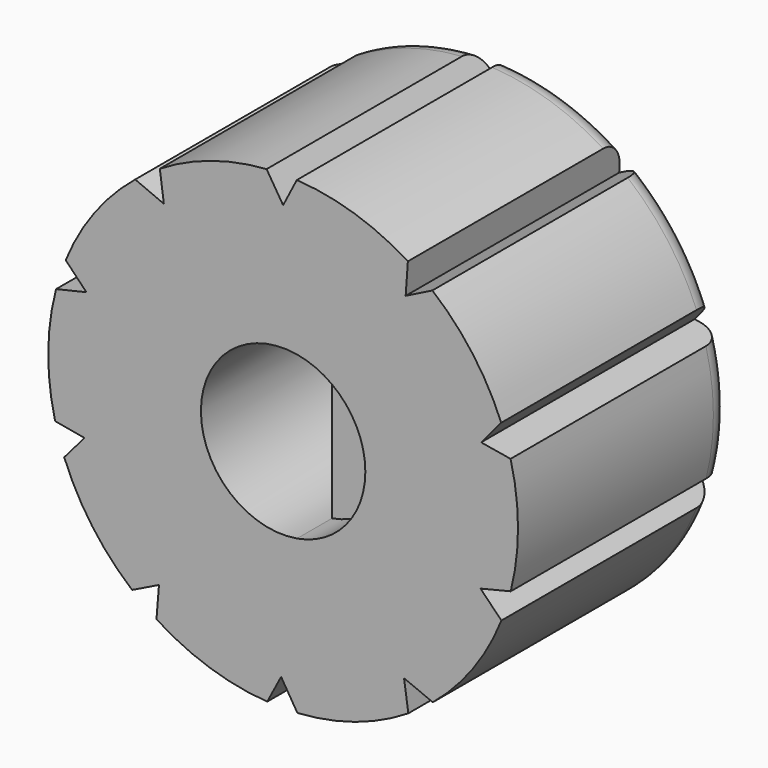
from build123d import *

# Parameters (mm, degrees)
F1_DEPTH = 10
F2_DEPTH = 7.95
F3_DEPTH = 2.5
F4_R     = 1.0622539674


with BuildPart() as f1:
    # F0 (on Front) → F1 (new body)
    with BuildSketch(Plane.XZ):
        with BuildLine():
            ThreePointArc((10.6592367905, -2.7167390458), (10.9144767327, -1.3690133864), (11, 0))
            ThreePointArc((11, 0), (10.9127641391, 1.3825985843), (10.65244021, 2.7432676816))
            Line((10.65244021, 2.7432676816), (9.2721758837, 2.9730035594))
            Line((9.2721758837, 2.9730035594), (10.2124558135, 4.0872663551))
            ThreePointArc((10.2124558135, 4.0872663551), (8.8785549643, 6.4939403867), (6.9890934799, 8.4942670272))
            Line((6.9890934799, 8.4942670272), (5.7386160604, 7.8664020679))
            Line((5.7386160604, 7.8664020679), (5.8415511192, 9.3207446335))
            ThreePointArc((5.8415511192, 9.3207446335), (3.3455445115, 10.4788993659), (0.6401960862, 10.9813546055))
            Line((0.6401960862, 10.9813546055), (0, 9.7371451557))
            Line((0, 9.7371451557), (-0.7739624833, 10.9727381302))
            ThreePointArc((-0.7739624833, 10.9727381302), (-3.3716222336, 10.4705378808), (-5.7742283081, 9.3626004638))
            Line((-5.7742283081, 9.3626004638), (-5.5849970186, 7.9762023598))
            Line((-5.5849970186, 7.9762023598), (-6.9276969841, 8.5444142278))
            ThreePointArc((-6.9276969841, 8.5444142278), (-8.8315250081, 6.5577561735), (-10.1827352173, 4.1607575626))
            Line((-10.1827352173, 4.1607575626), (-9.2127819423, 3.1522443856))
            Line((-9.2127819423, 3.1522443856), (-10.6323938835, 2.819964593))
            ThreePointArc((-10.6323938835, 2.819964593), (-10.9996071509, 0.0929651823), (-10.6785385121, -2.6398513682))
            Line((-10.6785385121, -2.6398513682), (-9.300566617, -2.8829596573))
            Line((-9.300566617, -2.8829596573), (-10.2516063733, -3.9880530046))
            ThreePointArc((-10.2516063733, -3.9880530046), (-8.941103633, -6.407547567), (-7.0711263799, -8.4261006236))
            Line((-7.0711263799, -8.4261006236), (-5.8146198884, -7.8103899606))
            Line((-5.8146198884, -7.8103899606), (-5.9316515908, -9.2636660888))
            ThreePointArc((-5.9316515908, -9.2636660888), (-3.4469919259, -10.445967962), (-0.7466425421, -10.9746309694))
            Line((-0.7466425421, -10.9746309694), (-0.0944125443, -9.7366874272))
            Line((-0.0944125443, -9.7366874272), (0.6675330963, -10.9797267528))
            ThreePointArc((0.6675330963, -10.9797267528), (3.3716222336, -10.4705378808), (5.8647377838, -9.3061727218))
            Line((5.8647377838, -9.3061727218), (5.662072705, -7.9216745998))
            Line((5.662072705, -7.9216745998), (7.0102190036, -8.4768407748))
            ThreePointArc((7.0102190036, -8.4768407748), (8.8946946533, -6.4718163621), (10.2225997539, -4.0618289319))
            Line((10.2225997539, -4.0618289319), (9.2429134084, -3.0627679486))
            Line((9.2429134084, -3.0627679486), (10.6592367905, -2.7167390458))
        make_face()
        with BuildLine():
            ThreePointArc((0.65, 3.7947331922), (2.9432125306, 2.4819347292), (3.85, 0))
            ThreePointArc((3.85, 0), (2.9432125306, -2.4819347292), (0.65, -3.7947331922))
            ThreePointArc((0.65, -3.7947331922), (-3.85, 0), (0.65, 3.7947331922))
        make_face(mode=Mode.SUBTRACT)
    extrude(amount=F1_DEPTH)

    # F0 (on Front) → F2 (join)
    with BuildSketch(Plane.XZ):
        with BuildLine():
            ThreePointArc((0.65, -3.7947331922), (2.9432125306, -2.4819347292), (3.85, 0))
            ThreePointArc((3.85, 0), (2.9432125306, 2.4819347292), (0.65, 3.7947331922))
            Line((0.65, 3.7947331922), (0.65, -3.7947331922))
        make_face()
    extrude(amount=F2_DEPTH)

    # F0 (on Front) → F3 (join)
    with BuildSketch(Plane.XZ):
        with BuildLine():
            ThreePointArc((10.6592367905, -2.7167390458), (10.9144767327, -1.3690133864), (11, 0))
            ThreePointArc((11, 0), (10.9127641391, 1.3825985843), (10.65244021, 2.7432676816))
            Line((10.65244021, 2.7432676816), (9.2721758837, 2.9730035594))
            Line((9.2721758837, 2.9730035594), (10.2124558135, 4.0872663551))
            ThreePointArc((10.2124558135, 4.0872663551), (8.8785549643, 6.4939403867), (6.9890934799, 8.4942670272))
            Line((6.9890934799, 8.4942670272), (5.7386160604, 7.8664020679))
            Line((5.7386160604, 7.8664020679), (5.8415511192, 9.3207446335))
            ThreePointArc((5.8415511192, 9.3207446335), (3.3455445115, 10.4788993659), (0.6401960862, 10.9813546055))
            Line((0.6401960862, 10.9813546055), (0, 9.7371451557))
            Line((0, 9.7371451557), (-0.7739624833, 10.9727381302))
            ThreePointArc((-0.7739624833, 10.9727381302), (-3.3716222336, 10.4705378808), (-5.7742283081, 9.3626004638))
            Line((-5.7742283081, 9.3626004638), (-5.5849970186, 7.9762023598))
            Line((-5.5849970186, 7.9762023598), (-6.9276969841, 8.5444142278))
            ThreePointArc((-6.9276969841, 8.5444142278), (-8.8315250081, 6.5577561735), (-10.1827352173, 4.1607575626))
            Line((-10.1827352173, 4.1607575626), (-9.2127819423, 3.1522443856))
            Line((-9.2127819423, 3.1522443856), (-10.6323938835, 2.819964593))
            ThreePointArc((-10.6323938835, 2.819964593), (-10.9996071509, 0.0929651823), (-10.6785385121, -2.6398513682))
            Line((-10.6785385121, -2.6398513682), (-9.300566617, -2.8829596573))
            Line((-9.300566617, -2.8829596573), (-10.2516063733, -3.9880530046))
            ThreePointArc((-10.2516063733, -3.9880530046), (-8.941103633, -6.407547567), (-7.0711263799, -8.4261006236))
            Line((-7.0711263799, -8.4261006236), (-5.8146198884, -7.8103899606))
            Line((-5.8146198884, -7.8103899606), (-5.9316515908, -9.2636660888))
            ThreePointArc((-5.9316515908, -9.2636660888), (-3.4469919259, -10.445967962), (-0.7466425421, -10.9746309694))
            Line((-0.7466425421, -10.9746309694), (-0.0944125443, -9.7366874272))
            Line((-0.0944125443, -9.7366874272), (0.6675330963, -10.9797267528))
            ThreePointArc((0.6675330963, -10.9797267528), (3.3716222336, -10.4705378808), (5.8647377838, -9.3061727218))
            Line((5.8647377838, -9.3061727218), (5.662072705, -7.9216745998))
            Line((5.662072705, -7.9216745998), (7.0102190036, -8.4768407748))
            ThreePointArc((7.0102190036, -8.4768407748), (8.8946946533, -6.4718163621), (10.2225997539, -4.0618289319))
            Line((10.2225997539, -4.0618289319), (9.2429134084, -3.0627679486))
            Line((9.2429134084, -3.0627679486), (10.6592367905, -2.7167390458))
        make_face()
        with BuildLine():
            ThreePointArc((0.65, 3.7947331922), (2.9432125306, 2.4819347292), (3.85, 0))
            ThreePointArc((3.85, 0), (2.9432125306, -2.4819347292), (0.65, -3.7947331922))
            ThreePointArc((0.65, -3.7947331922), (-3.85, 0), (0.65, 3.7947331922))
        make_face(mode=Mode.SUBTRACT)
        with BuildLine():
            Line((0.65, -3.7947331922), (0.65, 3.7947331922))
            ThreePointArc((0.65, 3.7947331922), (-3.85, 0), (0.65, -3.7947331922))
        make_face()
        with BuildLine():
            ThreePointArc((0.65, -3.7947331922), (2.9432125306, -2.4819347292), (3.85, 0))
            ThreePointArc((3.85, 0), (2.9432125306, 2.4819347292), (0.65, 3.7947331922))
            Line((0.65, 3.7947331922), (0.65, -3.7947331922))
        make_face()
    extrude(amount=-F3_DEPTH)

    # F4
    f4_edges = [f1.edges().sort_by_distance(p)[0] for p in [
        (-3.446992, 2.5, -10.445968),
        (3.371622, 2.5, -10.470538),
        (8.878555, 2.5, 6.49394),
        (3.345545, 2.5, 10.478899),
        (-3.371622, 2.5, 10.470538),
        (-8.831525, 2.5, 6.557756),
        (-10.999607, 2.5, 0.092965),
        (-8.941104, 2.5, -6.407548),
        (8.894695, 2.5, -6.471816),
        (10.999991, 2.5, 0.013693),
    ]]
    fillet(f4_edges, radius=F4_R)


solid = f1.part
